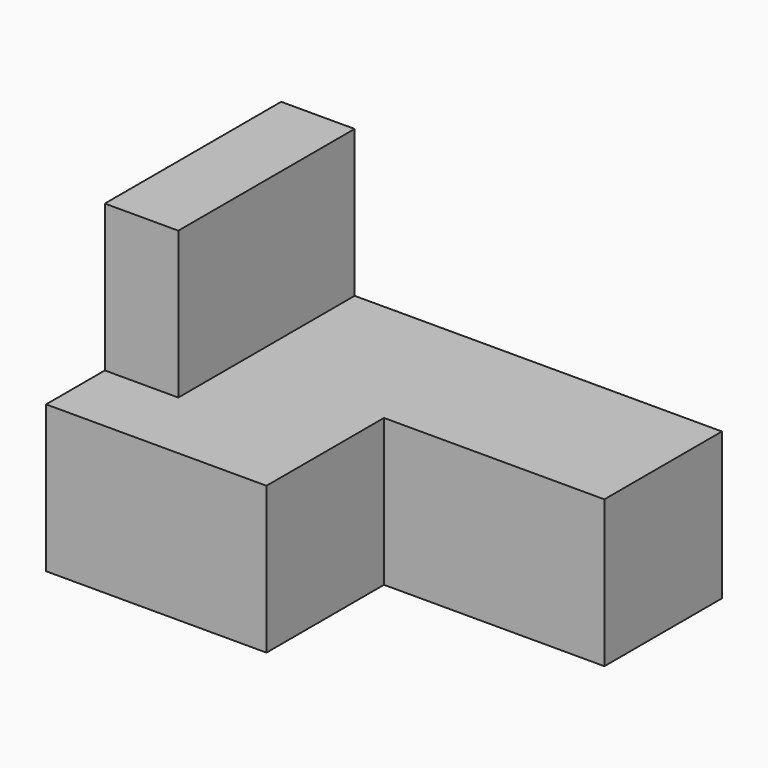
from build123d import *

# Parameters (mm, degrees)
F1_DEPTH = 25.4
F0_W     = 6.35
F0_H     = 12.7
F2_DEPTH = 19.05
F0_W_2   = 19.05
F3_DEPTH = 12.7


with BuildPart() as f1:
    # F0 (on Front) → F1 (new body)
    with BuildSketch(Plane.XZ):
        Polygon((0, 12.7), (0, 0), (19.05, 0), (19.05, 12.7), (6.35, 12.7), align=None)
    extrude(amount=F1_DEPTH)

    # F0 (on Front) → F2 (join)
    with BuildSketch(Plane.XZ):
        with Locations((3.175, 19.05)):
            Rectangle(F0_W, F0_H)
    extrude(amount=F2_DEPTH)

    # F0 (on Front) → F3 (join)
    with BuildSketch(Plane.XZ):
        with Locations((28.575, 6.35)):
            Rectangle(F0_W_2, F0_H)
    extrude(amount=F3_DEPTH)


solid = f1.part
